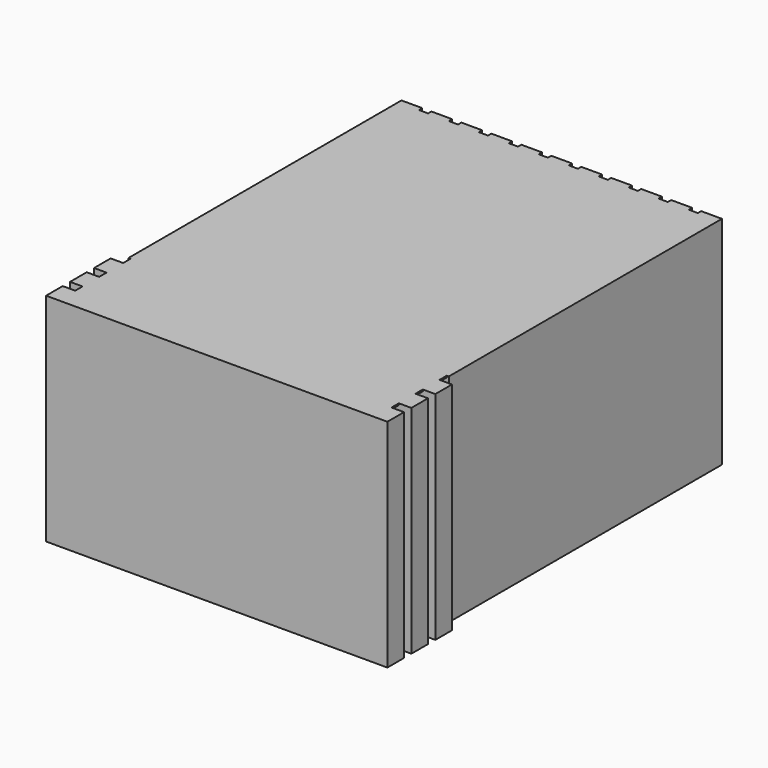
from build123d import *

# Parameters (mm, degrees)
F1_W     = 380
F1_H     = 500
F2_DEPTH = 2
F3_W     = 25
F3_H     = 410
F3_W_2   = 410
F3_H_2   = 25
F4_DEPTH = 260


with BuildPart() as f2:
    # F1 (on offset) → F2 (new body)
    with BuildSketch(Plane.XY.offset(258)):
        with Locations((0, -50)):
            Rectangle(F1_W, F1_H)
    extrude(amount=F2_DEPTH)

    # F3 (on Top) → F4 (join)
    with BuildSketch(Plane.XY):
        Rectangle(F3_W, F3_H)
        with Locations((36, 0)):
            Rectangle(F3_W, F3_H)
        with Locations((72, 0)):
            Rectangle(F3_W, F3_H)
        with Locations((108, 0)):
            Rectangle(F3_W, F3_H)
        with Locations((144, 0)):
            Rectangle(F3_W, F3_H)
        with Locations((180, 0)):
            Rectangle(F3_W, F3_H)
        with Locations((-36, 0)):
            Rectangle(F3_W, F3_H)
        with Locations((-72, 0)):
            Rectangle(F3_W, F3_H)
        with Locations((-108, 0)):
            Rectangle(F3_W, F3_H)
        with Locations((-144, 0)):
            Rectangle(F3_W, F3_H)
        with Locations((-180, 0)):
            Rectangle(F3_W, F3_H)
        with Locations((0, -228.5)):
            Rectangle(F3_W_2, F3_H_2)
        with Locations((0, -264.5)):
            Rectangle(F3_W_2, F3_H_2)
        with Locations((0, -300.5)):
            Rectangle(F3_W_2, F3_H_2)
    extrude(amount=F4_DEPTH)


solid = f2.part
